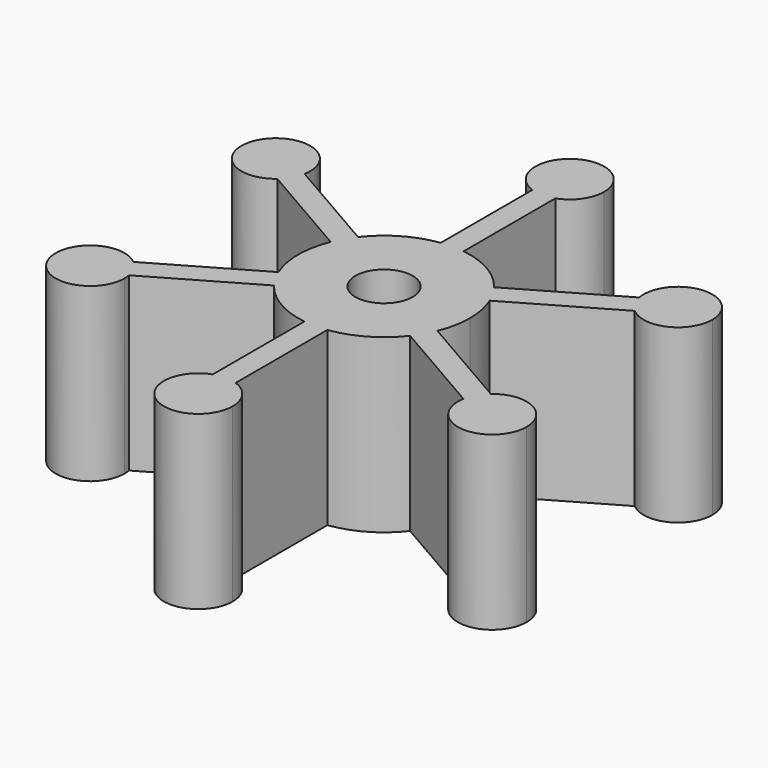
from build123d import *

# Parameters (mm, degrees)
F1_DEPTH = 15
F2_R     = 2.5
F3_DEPTH = 15.001


with BuildPart() as f1:
    # F0 (on Top) → F1 (new body)
    with BuildSketch(Plane.XY):
        with BuildLine():
            ThreePointArc((6.937197, -2.850492), (7.357954, -1.45276), (7.5, 0))
            ThreePointArc((7.5, 0), (7.357954, 1.45276), (6.937197, 2.850492))
            ThreePointArc((6.937197, 2.850492), (6.495191, 3.75), (5.937197, 4.582543))
            ThreePointArc((5.937197, 4.582543), (3.75, 6.495191), (1, 7.433034))
            ThreePointArc((1, 7.433034), (0, 7.5), (-1, 7.433034))
            ThreePointArc((-1, 7.433034), (-3.75, 6.495191), (-5.937197, 4.582543))
            ThreePointArc((-5.937197, 4.582543), (-6.495191, 3.75), (-6.937197, 2.850492))
            ThreePointArc((-6.937197, 2.850492), (-7.5, 0), (-6.937197, -2.850492))
            ThreePointArc((-6.937197, -2.850492), (-6.495191, -3.75), (-5.937197, -4.582543))
            ThreePointArc((-5.937197, -4.582543), (-3.75, -6.495191), (-1, -7.433034))
            ThreePointArc((-1, -7.433034), (0, -7.5), (1, -7.433034))
            ThreePointArc((1, -7.433034), (3.75, -6.495191), (5.937197, -4.582543))
            ThreePointArc((5.937197, -4.582543), (6.495191, -3.75), (6.937197, -2.850492))
        make_face()
        with BuildLine():
            ThreePointArc((5.937197, 4.582543), (6.495191, 3.75), (6.937197, 2.850492))
            Line((6.937197, 2.850492), (15.597451, 7.850492))
            ThreePointArc((15.597451, 7.850492), (14.948864, 8.630731), (14.597451, 9.582543))
            Line((14.597451, 9.582543), (5.937197, 4.582543))
        make_face()
        with BuildLine():
            Line((15.597451, -7.850492), (6.937197, -2.850492))
            ThreePointArc((6.937197, -2.850492), (6.495191, -3.75), (5.937197, -4.582543))
            Line((5.937197, -4.582543), (14.597451, -9.582543))
            ThreePointArc((14.597451, -9.582543), (14.948864, -8.630731), (15.597451, -7.850492))
        make_face()
        with BuildLine():
            ThreePointArc((14.597451, 9.582543), (14.948864, 8.630731), (15.597451, 7.850492))
            ThreePointArc((15.597451, 7.850492), (18.802235, 7.405986), (20.54694, 10.130731))
            ThreePointArc((20.54694, 10.130731), (17.271685, 13.118076), (14.597451, 9.582543))
        make_face()
        with BuildLine():
            ThreePointArc((20.54694, -10.130731), (18.802235, -7.405986), (15.597451, -7.850492))
            ThreePointArc((15.597451, -7.850492), (14.948864, -8.630731), (14.597451, -9.582543))
            ThreePointArc((14.597451, -9.582543), (17.271685, -13.118076), (20.54694, -10.130731))
        make_face()
        with BuildLine():
            ThreePointArc((-1, 7.433034), (0, 7.5), (1, 7.433034))
            Line((1, 7.433034), (1, 17.433034))
            ThreePointArc((1, 17.433034), (0, 17.261461), (-1, 17.433034))
            Line((-1, 17.433034), (-1, 7.433034))
        make_face()
        with BuildLine():
            Line((1, -17.433034), (1, -7.433034))
            ThreePointArc((1, -7.433034), (0, -7.5), (-1, -7.433034))
            Line((-1, -7.433034), (-1, -17.433034))
            ThreePointArc((-1, -17.433034), (0, -17.261461), (1, -17.433034))
        make_face()
        with BuildLine():
            ThreePointArc((-1, 17.433034), (0, 17.261461), (1, 17.433034))
            ThreePointArc((1, 17.433034), (2.44949, 18.529411), (3, 20.261461))
            ThreePointArc((3, 20.261461), (-1.732051, 22.710951), (-1, 17.433034))
        make_face()
        with BuildLine():
            ThreePointArc((3, -20.261461), (2.44949, -18.529411), (1, -17.433034))
            ThreePointArc((1, -17.433034), (0, -17.261461), (-1, -17.433034))
            ThreePointArc((-1, -17.433034), (-1.732051, -22.710951), (3, -20.261461))
        make_face()
        with BuildLine():
            ThreePointArc((-6.937197, 2.850492), (-6.495191, 3.75), (-5.937197, 4.582543))
            Line((-5.937197, 4.582543), (-14.597451, 9.582543))
            ThreePointArc((-14.597451, 9.582543), (-14.948864, 8.630731), (-15.597451, 7.850492))
            Line((-15.597451, 7.850492), (-6.937197, 2.850492))
        make_face()
        with BuildLine():
            Line((-14.597451, -9.582543), (-5.937197, -4.582543))
            ThreePointArc((-5.937197, -4.582543), (-6.495191, -3.75), (-6.937197, -2.850492))
            Line((-6.937197, -2.850492), (-15.597451, -7.850492))
            ThreePointArc((-15.597451, -7.850492), (-14.948864, -8.630731), (-14.597451, -9.582543))
        make_face()
        with BuildLine():
            ThreePointArc((-15.597451, 7.850492), (-14.948864, 8.630731), (-14.597451, 9.582543))
            ThreePointArc((-14.597451, 9.582543), (-14.559595, 9.855476), (-14.54694, 10.130731))
            ThreePointArc((-14.54694, 10.130731), (-20.271685, 11.386026), (-15.597451, 7.850492))
        make_face()
        with BuildLine():
            ThreePointArc((-14.54694, -10.130731), (-14.559595, -9.855476), (-14.597451, -9.582543))
            ThreePointArc((-14.597451, -9.582543), (-14.948864, -8.630731), (-15.597451, -7.850492))
            ThreePointArc((-15.597451, -7.850492), (-20.271685, -11.386026), (-14.54694, -10.130731))
        make_face()
    extrude(amount=F1_DEPTH)

    # F2 (on face) → F3 (cut, through all)
    with BuildSketch(Plane.XY.offset(15)):
        Circle(F2_R)
    extrude(amount=-F3_DEPTH, mode=Mode.SUBTRACT)


solid = f1.part
